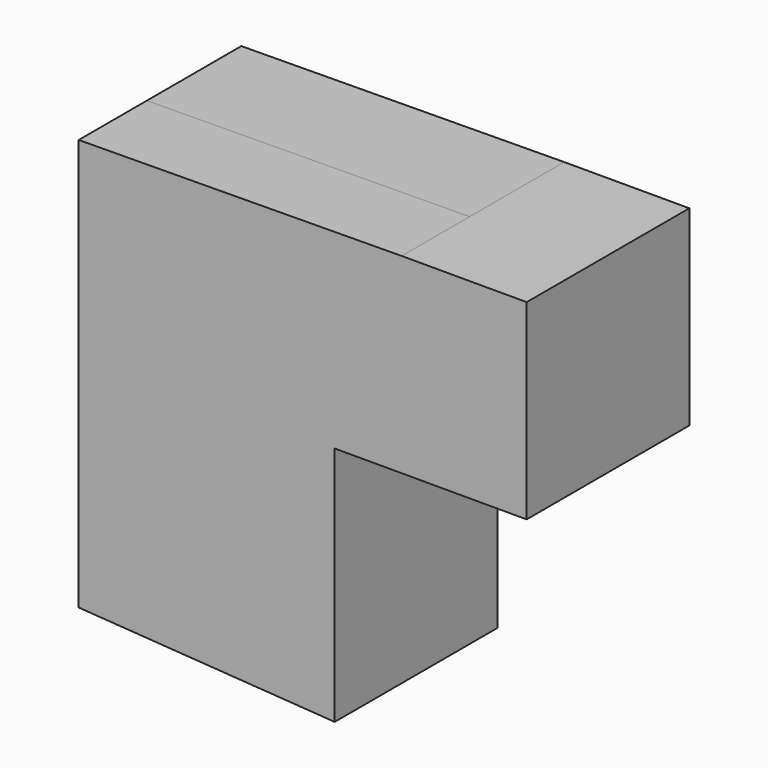
from build123d import *

# Parameters (mm, degrees)
F1_DEPTH = 25.4
F2_DEPTH = 18.288


with BuildPart() as f1:
    # F0 (on Front) → F1 (new body)
    with BuildSketch(Plane.XZ):
        Polygon((41.260753, 41.104462), (14.378747, 41.104462), (-55.014335, 40.479299), (-55.014335, -47.981247), (0, -51.732227), (0, 0), (41.260753, 0), align=None)
    extrude(amount=F1_DEPTH)

    # F1_face (on face) → F2 (join)
    with BuildSketch(Plane(origin=(-15.12676, -25.4, 1.802557), x_dir=(1, 0, 0), z_dir=(0, -1, 0))):
        Polygon((56.387513, 39.301905), (29.505507, 39.301905), (-39.887574, 38.676742), (-39.887574, -49.783804), (15.12676, -53.534784), (15.12676, -1.802557), (56.387513, -1.802557), align=None)
    extrude(amount=F2_DEPTH)


solid = f1.part
